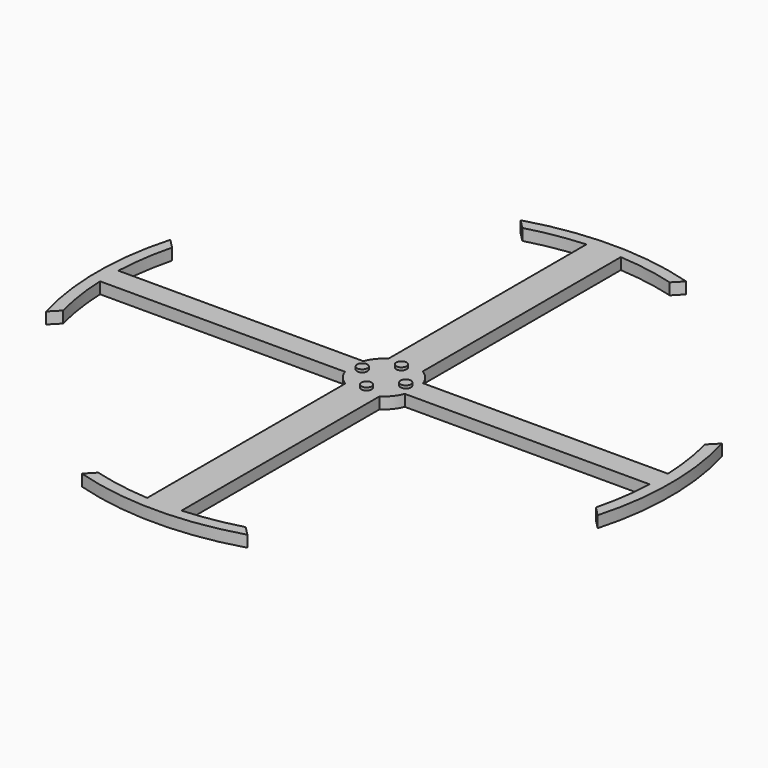
from build123d import *

# Parameters (mm, degrees)
F1_DEPTH = 5
F3_DEPTH = 5
F4_R     = 2.25
F5_DEPTH = 1.2


with BuildPart() as f1:
    # F0 (on Top) → F1 (new body)
    with BuildSketch(Plane.XY):
        with BuildLine():
            ThreePointArc((-116.2578831103, -29.7338967292), (-118.7227043002, -17.4619438679), (-119.8957880828, -5))
            Line((-119.8957880828, -5), (-7.5, -5))
            Line((-7.5, -5), (-7.5, -119.76539567))
            ThreePointArc((-7.5, -119.76539567), (-19.9347609629, -118.3326045744), (-32.152625953, -115.6123204694))
            Line((-32.152625953, -115.6123204694), (-36.1232570919, -119.6666632654))
            ThreePointArc((-36.1232570919, -119.6666632654), (0, -125), (36.1232570919, -119.6666632654))
            Line((36.1232570919, -119.6666632654), (32.152625953, -115.6123204694))
            ThreePointArc((32.152625953, -115.6123204694), (19.9347609629, -118.3326045744), (7.5, -119.76539567))
            Line((7.5, -119.76539567), (7.5, -5))
            Line((7.5, -5), (119.8957880828, -5))
            ThreePointArc((119.8957880828, -5), (118.7227043002, -17.4619438679), (116.2578831103, -29.7338967292))
            Line((116.2578831103, -29.7338967292), (120.3204231937, -33.8820861591))
            ThreePointArc((120.3204231937, -33.8820861591), (125, 0), (120.3204231937, 33.8820861591))
            Line((120.3204231937, 33.8820861591), (116.2578831103, 29.7338967292))
            ThreePointArc((116.2578831103, 29.7338967292), (118.7227043002, 17.4619438679), (119.8957880828, 5))
            Line((119.8957880828, 5), (7.5, 5))
            Line((7.5, 5), (7.5, 119.76539567))
            ThreePointArc((7.5, 119.76539567), (19.9347609629, 118.3326045744), (32.152625953, 115.6123204694))
            Line((32.152625953, 115.6123204694), (36.1232570919, 119.6666632654))
            ThreePointArc((36.1232570919, 119.6666632654), (0, 125), (-36.1232570919, 119.6666632654))
            Line((-36.1232570919, 119.6666632654), (-32.152625953, 115.6123204694))
            ThreePointArc((-32.152625953, 115.6123204694), (-19.9347609629, 118.3326045744), (-7.5, 119.76539567))
            Line((-7.5, 119.76539567), (-7.5, 5))
            Line((-7.5, 5), (-119.8957880828, 5))
            ThreePointArc((-119.8957880828, 5), (-118.7227043002, 17.4619438679), (-116.2578831103, 29.7338967292))
            Line((-116.2578831103, 29.7338967292), (-120.3204231937, 33.8820861591))
            ThreePointArc((-120.3204231937, 33.8820861591), (-125, 0), (-120.3204231937, -33.8820861591))
            Line((-120.3204231937, -33.8820861591), (-116.2578831103, -29.7338967292))
        make_face()
    extrude(amount=F1_DEPTH)

    # F2 (on face) → F3 (join)
    with BuildSketch(Plane(origin=(0, 0, 0), x_dir=(1, 0, 0), z_dir=(0, 0, -1))):
        with BuildLine():
            Line((7.5, 5), (13.0766968306, 5))
            ThreePointArc((13.0766968306, 5), (10.8389869024, 8.8609459387), (7.5, 11.8215904175))
            Line((7.5, 11.8215904175), (7.5, 5))
        make_face()
        with BuildLine():
            ThreePointArc((7.5, -11.8215904175), (10.8389869024, -8.8609459387), (13.0766968306, -5))
            Line((13.0766968306, -5), (7.5, -5))
            Line((7.5, -5), (7.5, -11.8215904175))
        make_face()
        with BuildLine():
            ThreePointArc((-13.0766968306, -5), (-10.8389869024, -8.8609459387), (-7.5, -11.8215904175))
            Line((-7.5, -11.8215904175), (-7.5, -5))
            Line((-7.5, -5), (-13.0766968306, -5))
        make_face()
        with BuildLine():
            Line((-7.5, 5), (-7.5, 11.8215904175))
            ThreePointArc((-7.5, 11.8215904175), (-10.8389869024, 8.8609459387), (-13.0766968306, 5))
            Line((-13.0766968306, 5), (-7.5, 5))
        make_face()
    extrude(amount=-F3_DEPTH)

    # F4 (on face) → F5 (join)
    with BuildSketch(Plane.XY.offset(5)):
        with Locations((0, 9.5)):
            Circle(F4_R)
        with Locations((-9.5, 0)):
            Circle(F4_R)
        with Locations((0, -9.5)):
            Circle(F4_R)
        with Locations((9.5, 0)):
            Circle(F4_R)
    extrude(amount=F5_DEPTH)


solid = f1.part
